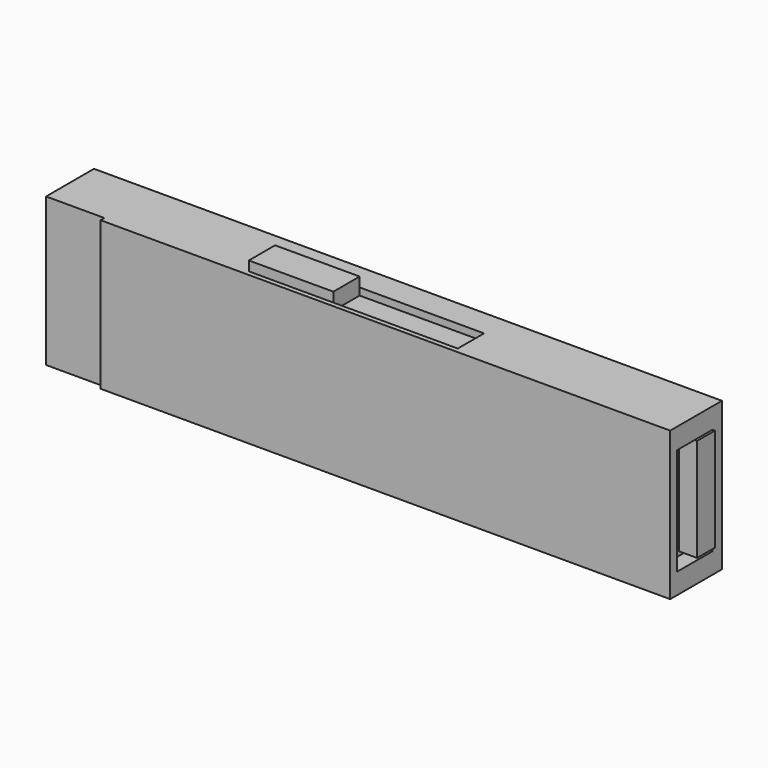
from build123d import *

# Parameters (mm, degrees)
F0_W      = 52.4384081364
F0_H      = 12.3928444714
F1_DEPTH  = 5
F2_W      = 47.5675082519
F2_H      = 12.3928444714
F3_DEPTH  = 0.4
F4_W      = 17.4495708197
F4_H      = 2.7426069784
F5_DEPTH  = 0.6
F6_W      = 7.059096708
F6_H      = 2.7426069784
F7_DEPTH  = 1.4
F8_W      = 3.7224081942
F8_H      = 8.9364917949
F9_DEPTH  = 1.3
F10_W     = 1.8612040971
F10_H     = 8.6072823033
F11_DEPTH = 1.5


with BuildPart() as f1:
    # F0 (on Front) → F1 (new body)
    with BuildSketch(Plane.XZ):
        with Locations((3.5388600081, 16.1491944455)):
            Rectangle(F0_W, F0_H)
    extrude(amount=F1_DEPTH)

    # F2 (on face) → F3 (join)
    with BuildSketch(Plane.XZ.offset(5)):
        with Locations((5.9743099503, 16.1491944455)):
            Rectangle(F2_W, F2_H)
    extrude(amount=F3_DEPTH)

    # F4 (on face) → F5 (cut)
    with BuildSketch(Plane.XY.offset(22.3456166812)):
        with Locations((2.9753278941, -3.6286965108)):
            Rectangle(F4_W, F4_H)
    extrude(amount=-F5_DEPTH, mode=Mode.SUBTRACT)

    # F6 (on face) → F7 (join)
    with BuildSketch(Plane.XY.offset(21.7456166812)):
        with Locations((-2.2199091618, -3.6286965108)):
            Rectangle(F6_W, F6_H)
    extrude(amount=F7_DEPTH)

    # F8 (on face) → F9 (cut)
    with BuildSketch(Plane.YZ.offset(29.7580640763)):
        with Locations((-2.8406968922, 16.1491944455)):
            Rectangle(F8_W, F8_H)
    extrude(amount=-F9_DEPTH, mode=Mode.SUBTRACT)

    # F10 (on face) → F11 (join)
    with BuildSketch(Plane.YZ.offset(28.4580640763)):
        with Locations((-1.9100948437, 16.3137991913)):
            Rectangle(F10_W, F10_H)
    extrude(amount=F11_DEPTH)


solid = f1.part
